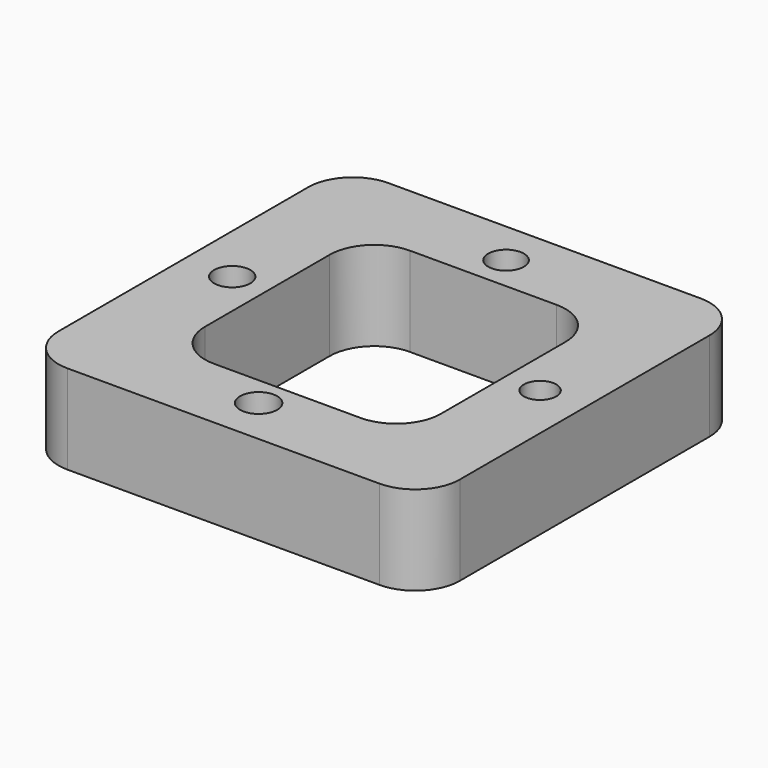
from build123d import *

# Parameters (mm, degrees)
F0_W     = 23.217392
F0_H     = 21.835592
F1_DEPTH = 10
F2_W     = 26.445957
F2_H     = 27.469668
F3_DEPTH = 25
F4_R     = 5
F5_R     = 5
F6_R     = 2
F6_R_2   = 2.033505
F6_R_3   = 2.079501
F6_R_4   = 1.815846
F7_DEPTH = 25


with BuildPart() as f1:
    # F0 (on Top) → F1 (new body)
    with BuildSketch(Plane.XY):
        Polygon((-6.648776, 53.989464), (-51.648776, 53.989464), (-40.906838, 42.266803), (-17.689446, 42.266803), (-17.689446, 20.431211), (-6.648776, 8.989464), align=None)
        Polygon((-40.906838, 42.266803), (-51.648776, 53.989464), (-51.648776, 8.989464), (-6.648776, 8.989464), (-17.689446, 20.431211), (-40.906838, 20.431211), align=None)
        with Locations((-29.298142, 31.349007)):
            Rectangle(F0_W, F0_H)
    extrude(amount=F1_DEPTH)

    # F2 (on Top) → F3 (cut)
    with BuildSketch(Plane.XY):
        with Locations((-28.950831, 31.422166)):
            Rectangle(F2_W, F2_H)
    extrude(amount=F3_DEPTH, mode=Mode.SUBTRACT)

    # F4
    f4_edges = [f1.edges().sort_by_distance(p)[0] for p in [
        (-51.648776, 8.989464, 5),
        (-51.648776, 53.989464, 5),
        (-6.648776, 53.989464, 5),
        (-6.648776, 8.989464, 5),
    ]]
    fillet(f4_edges, radius=F4_R)

    # F5
    f5_edges = [f1.edges().sort_by_distance(p)[0] for p in [
        (-42.17381, 17.687332, 5),
        (-42.17381, 45.157, 5),
        (-15.727853, 45.157, 5),
        (-15.727853, 17.687332, 5),
    ]]
    fillet(f5_edges, radius=F5_R)

    # F6 (on Top) → F7 (cut)
    with BuildSketch(Plane.XY):
        with Locations((-29.471436, 49.004467)):
            Circle(F6_R)
        with Locations((-46.240133, 31.578172)):
            Circle(F6_R_2)
        with Locations((-29.471436, 14.316277)):
            Circle(F6_R_3)
        with Locations((-11.716344, 31.578172)):
            Circle(F6_R_4)
    extrude(amount=F7_DEPTH, mode=Mode.SUBTRACT)


solid = f1.part
